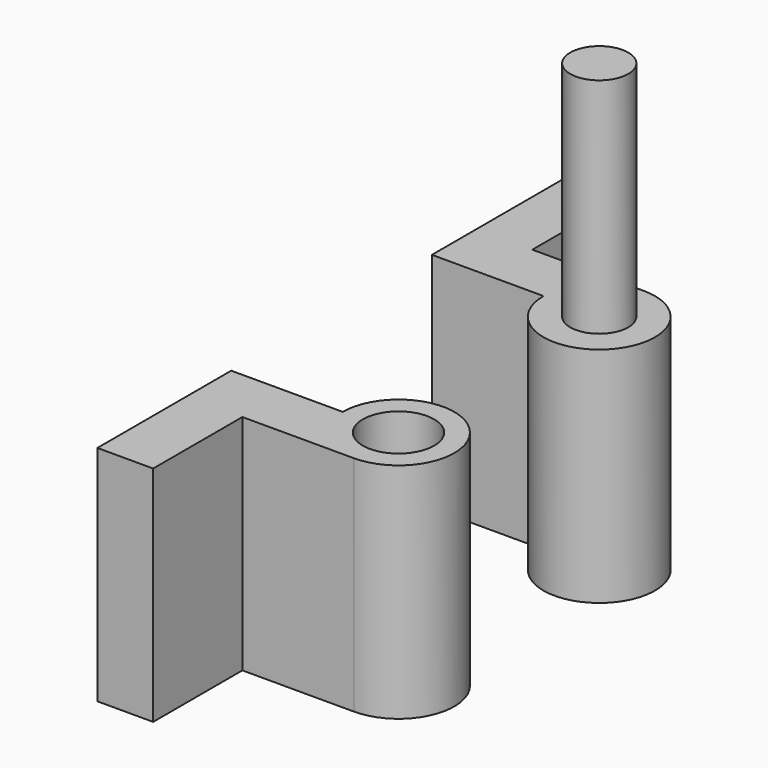
from build123d import *

# Parameters (mm, degrees)
F0_R     = 2.6
F0_R_2   = 3.2
F1_DEPTH = 20
F2_DEPTH = 40


with BuildPart() as f1:
    # F0 (on Top) → F1 (new body)
    with BuildSketch(Plane.XY):
        with BuildLine():
            Line((-15, 15), (-15, 5))
            Line((-15, 5), (-15, 0))
            Line((-15, 0), (-5, 0))
            ThreePointArc((-5, 0), (3.535534, -3.535534), (0, 5))
            Line((0, 5), (-10, 5))
            Line((-10, 5), (-10, 15))
            Line((-10, 15), (-15, 15))
        make_face()
        Circle(F0_R, mode=Mode.SUBTRACT)
        with BuildLine():
            Line((-10, -27.49314), (0, -27.49314))
            ThreePointArc((0, -27.49314), (3.535534, -18.957606), (-5, -22.49314))
            Line((-5, -22.49314), (-15, -22.49314))
            Line((-15, -22.49314), (-15, -27.49314))
            Line((-15, -27.49314), (-15, -37.49314))
            Line((-15, -37.49314), (-10, -37.49314))
            Line((-10, -37.49314), (-10, -27.49314))
        make_face()
        with Locations((0, -22.49314)):
            Circle(F0_R_2, mode=Mode.SUBTRACT)
    extrude(amount=F1_DEPTH)

    # F0 (on Top) → F2 (join)
    with BuildSketch(Plane.XY):
        Circle(F0_R)
    extrude(amount=F2_DEPTH)


solid = f1.part
